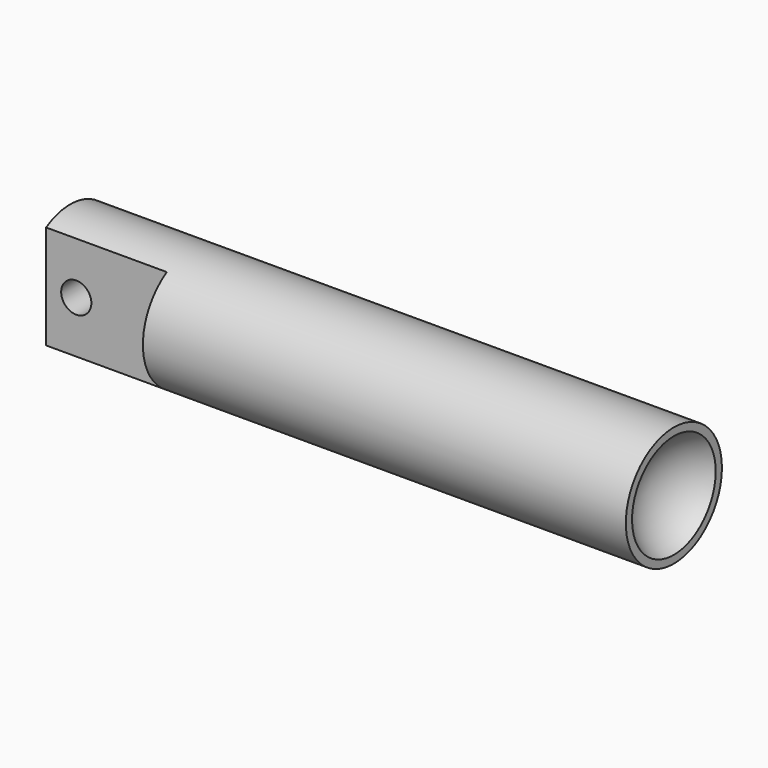
from build123d import *

# Parameters (mm, degrees)
F0_R          = 12.6365
F1_DEPTH      = 127
F2_W          = 25.4
F2_H          = 11.7928569943
F2_H_2        = 12.4732144436
F3_DEPTH      = 25.4
F3_DEPTH_BACK = 25.4
F4_R          = 3.175
F5_DEPTH      = 25.4


with BuildPart() as f1:
    # F0 (on Right) → F1 (new body)
    with BuildSketch(Plane.YZ):
        Circle(F0_R)
    extrude(amount=F1_DEPTH)

    # F2 (on Top) → F3 (cut, two sides)
    with BuildSketch(Plane.XY) as f3_sk:
        with Locations((12.7, 12.2464284971)):
            Rectangle(F2_W, F2_H)
        with Locations((12.7, -12.5866072218)):
            Rectangle(F2_W, F2_H_2)
    extrude(amount=-F3_DEPTH, mode=Mode.SUBTRACT)
    extrude(f3_sk.sketch, amount=F3_DEPTH_BACK, mode=Mode.SUBTRACT)

    # F4 (on face) → F5 (cut)
    with BuildSketch(Plane.XZ.offset(6.35)):
        with Locations((6.35, 0)):
            Circle(F4_R)
    extrude(amount=-F5_DEPTH, mode=Mode.SUBTRACT)

    # F6 (on Front) → F7 (revolve, cut)
    with BuildSketch(Plane.XZ):
        with BuildLine():
            Line((120.65, 0), (146.05, 0))
            ThreePointArc((146.05, 0), (133.35, 12.7), (120.65, 0))
        make_face()
    revolve(axis=Axis((133.35, 0, 0), (1, 0, 0)), mode=Mode.SUBTRACT)


solid = f1.part
